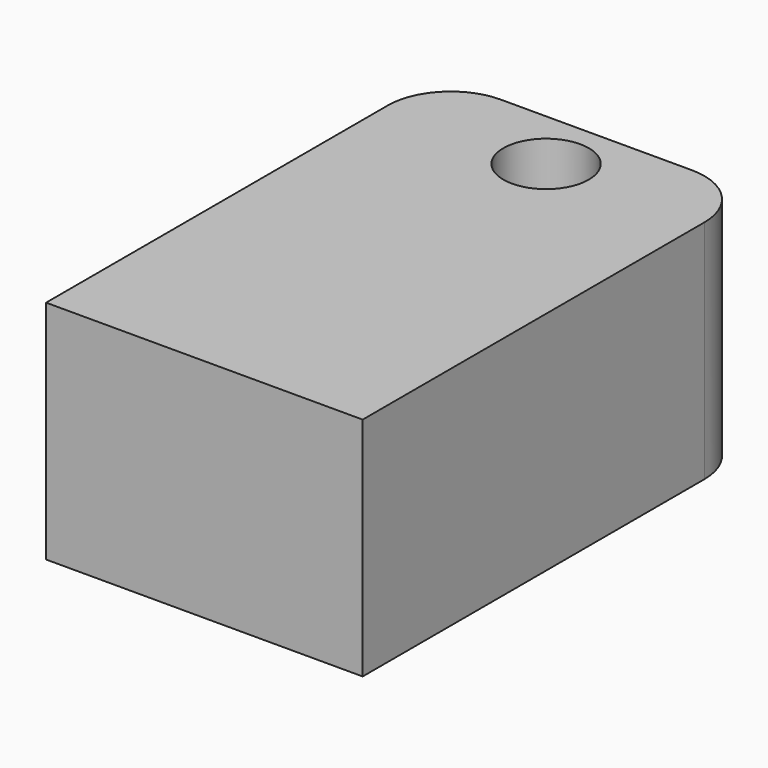
from build123d import *

# Parameters (mm, degrees)
F1_DEPTH = 15
F3_DEPTH = 3
F4_R     = 3.4
F5_DEPTH = 18.001


with BuildPart() as f1:
    # F0 (on Top) → F1 (new body)
    with BuildSketch(Plane.XY):
        with BuildLine():
            Line((12.6, 0), (12.6, 22.4))
            ThreePointArc((12.6, 22.4), (11.135534, 25.935534), (7.6, 27.4))
            Line((7.6, 27.4), (0, 27.4))
            Line((0, 27.4), (-7.6, 27.4))
            ThreePointArc((-7.6, 27.4), (-11.135534, 25.935534), (-12.6, 22.4))
            Line((-12.6, 22.4), (-12.6, 0))
            Line((-12.6, 0), (-12.6, -11.6))
            Line((-12.6, -11.6), (0, -11.6))
            Line((0, -11.6), (12.6, -11.6))
            Line((12.6, -11.6), (12.6, 0))
        make_face()
        Polygon((-7.6, 6.6), (0, 6.6), (7.6, 6.6), (7.6, 0), (7.6, -6.6), (0, -6.6), (-7.6, -6.6), (-7.6, 0), align=None, mode=Mode.SUBTRACT)
    extrude(amount=F1_DEPTH)

    # F2 (on face) → F3 (join)
    with BuildSketch(Plane.XY.offset(15)):
        with BuildLine():
            Line((-12.6, 22.4), (-12.6, -11.6))
            Line((-12.6, -11.6), (0, -11.6))
            Line((0, -11.6), (12.6, -11.6))
            Line((12.6, -11.6), (12.6, 22.4))
            ThreePointArc((12.6, 22.4), (11.135534, 25.935534), (7.6, 27.4))
            Line((7.6, 27.4), (0, 27.4))
            Line((0, 27.4), (-7.6, 27.4))
            ThreePointArc((-7.6, 27.4), (-11.135534, 25.935534), (-12.6, 22.4))
        make_face()
    extrude(amount=F3_DEPTH)

    # F4 (on face) → F5 (cut, through all)
    with BuildSketch(Plane.XY.offset(18)):
        with Locations((0, 22.4)):
            Circle(F4_R)
    extrude(amount=-F5_DEPTH, mode=Mode.SUBTRACT)


solid = f1.part
